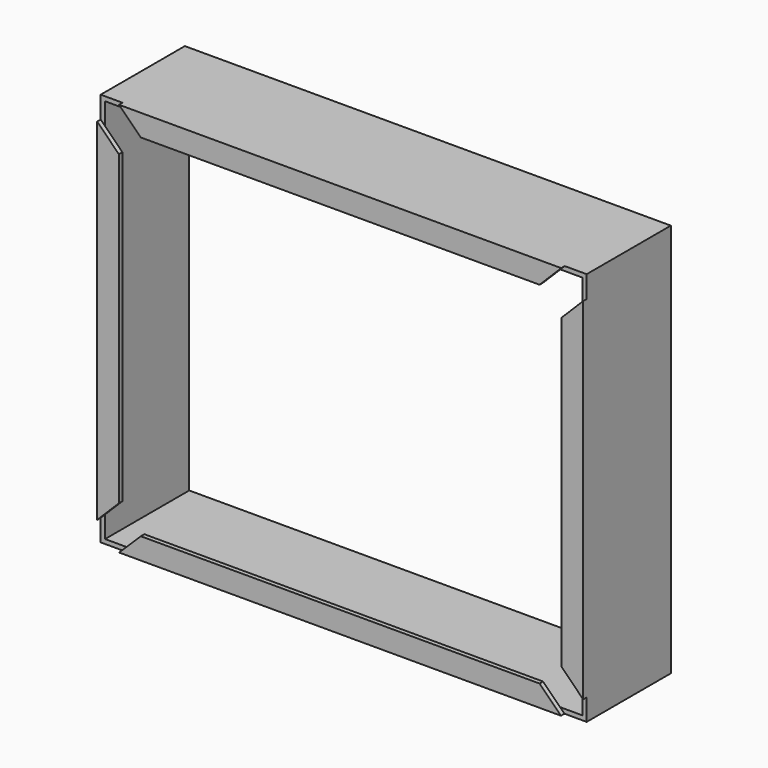
from build123d import *

# Parameters (mm, degrees)
F1_DEPTH = 25
F2_DEPTH = 1
F3_W     = 108.879238
F3_H     = 87.930533
F4_DEPTH = 24


with BuildPart() as f1:
    # F0 (on Front) → F1 (new body)
    with BuildSketch(Plane.XZ):
        Polygon((-45.439619, 45), (-50.439619, 45), (-45.489871, 40.050253), (45.489871, 40.050253), (50.439619, 45), (3.5, 45), (-3.5, 45), align=None)
        Polygon((-55.439619, 45), (-55.439619, 40), (-50.489871, 35.050253), (-50.489871, -35.050253), (-55.439619, -40), (-55.439619, -44.930533), (-50.439619, -44.930533), (-45.489871, -40.050253), (45.489871, -40.050253), (50.370151, -44.930533), (50.439619, -44.930533), (55.439619, -44.930533), (55.439619, -40), (50.489871, -35.050253), (50.489871, 35.050253), (55.439619, 40), (55.439619, 45), (50.439619, 45), (45.489871, 40.050253), (-45.489871, 40.050253), (-50.439619, 45), align=None)
        Polygon((55.439619, 3.5), (55.439619, 40), (50.489871, 35.050253), (50.489871, -35.050253), (55.439619, -40), (55.439619, -39.930533), (55.439619, -3.5), align=None)
        Polygon((-45.489871, -40.050253), (-50.439619, -44.930533), (-3.5, -44.930533), (3.5, -44.930533), (50.370151, -44.930533), (45.489871, -40.050253), align=None)
        Polygon((-55.439619, 40), (-55.439619, 3.5), (-55.439619, -3.5), (-55.439619, -39.930533), (-55.439619, -40), (-50.489871, -35.050253), (-50.489871, 35.050253), align=None)
    extrude(amount=-F1_DEPTH)

    # F0 (on Front) → F2 (cut)
    with BuildSketch(Plane.XZ):
        Polygon((-55.439619, 45), (-55.439619, 40), (-50.489871, 35.050253), (-50.489871, -35.050253), (-55.439619, -40), (-55.439619, -44.930533), (-50.439619, -44.930533), (-45.489871, -40.050253), (45.489871, -40.050253), (50.370151, -44.930533), (50.439619, -44.930533), (55.439619, -44.930533), (55.439619, -40), (50.489871, -35.050253), (50.489871, 35.050253), (55.439619, 40), (55.439619, 45), (50.439619, 45), (45.489871, 40.050253), (-45.489871, 40.050253), (-50.439619, 45), align=None)
    extrude(amount=-F2_DEPTH, mode=Mode.SUBTRACT)

    # F3 (on face) → F4 (cut)
    with BuildSketch(Plane(origin=(0, 25, 0), x_dir=(-1, 0, 0), z_dir=(0, 1, 0))):
        with Locations((0, 0.034734)):
            Rectangle(F3_W, F3_H)
    extrude(amount=-F4_DEPTH, mode=Mode.SUBTRACT)


solid = f1.part
